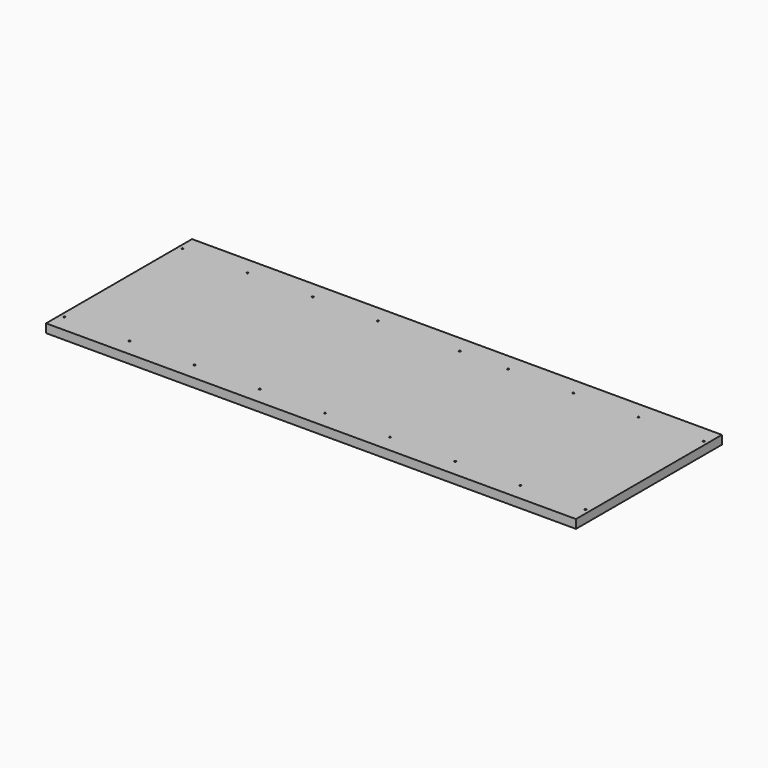
from build123d import *

# Parameters (mm, degrees)
F0_W     = 610
F0_H     = 210
F1_DEPTH = 10
F3_D     = 2


with BuildPart() as f1:
    # F0 (on Top) → F1 (new body)
    with BuildSketch(Plane.XY):
        with Locations((-305, -105)):
            Rectangle(F0_W, F0_H)
    extrude(amount=F1_DEPTH)

    # F3 (through all)
    with Locations(Plane.XY.offset(10)):
        with Locations((-530, -190), (-455, -190), (-380, -190), (-305, -190), (-230, -190), (-155, -190), (-80, -190), (-80, -20), (-155, -20), (-230, -20), (-285.746487, -20), (-380, -20), (-455, -20), (-530, -20), (-605, -20), (-605, -190), (-5, -20), (-5, -190)):
            Hole(F3_D / 2)


solid = f1.part
